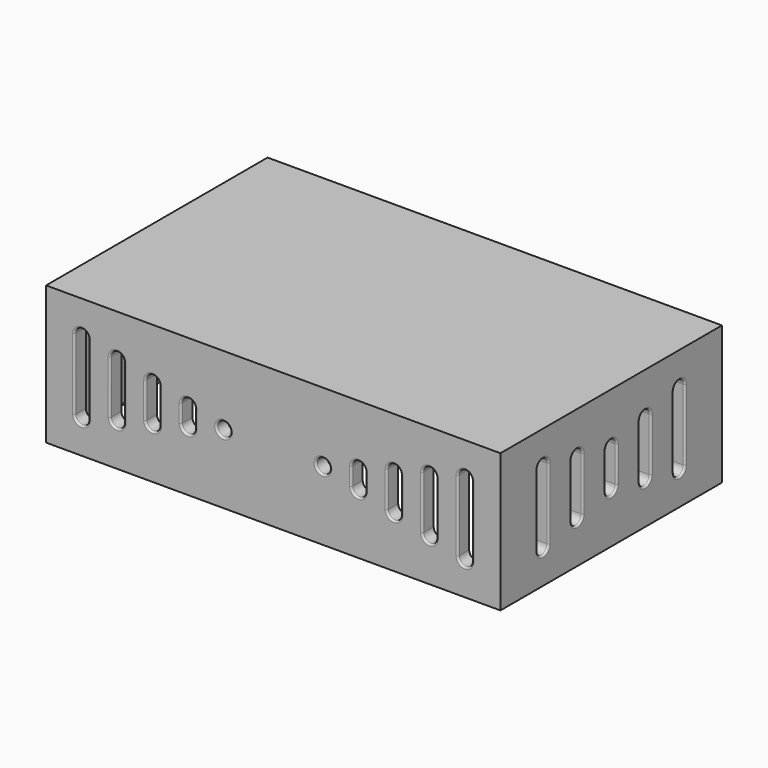
from build123d import *

# Parameters (mm, degrees)
SKETCH_W        = 128
SKETCH_H        = 78
PAD_DEPTH       = 39
SKETCH001_W     = 120
SKETCH001_H     = 70
POCKET_DEPTH    = 35
SKETCH002_R     = 2
POCKET001_DEPTH = 78.001
POCKET002_DEPTH = 128.001
SKETCH004_W     = 124
SKETCH004_H     = 74
POCKET003_DEPTH = 2
FILLET_R        = 0.5
POCKET004_DEPTH = 5
FILLET001_R     = 0.5
SKETCH006_W     = 15
SKETCH006_H     = 2
POCKET005_DEPTH = 5


with BuildPart() as part:
    # Sketch → Pad (new body)
    with BuildSketch(Plane.XY):
        with Locations((64, 39)):
            Rectangle(SKETCH_W, SKETCH_H)
    extrude(amount=PAD_DEPTH)

    # Sketch001 (on Face5 of Pad) → Pocket (cut)
    with BuildSketch(Plane(origin=(0, 0, 0), x_dir=(1, 0, 0), z_dir=(0, 0, -1))):
        with Locations((64, -39)):
            Rectangle(SKETCH001_W, SKETCH001_H)
    extrude(amount=-POCKET_DEPTH, mode=Mode.SUBTRACT)

    # Sketch002 (on Face1 of Pocket) → Pocket001 (cut, through all)
    with BuildSketch(Plane(origin=(0, 78, 0), x_dir=(-1, 0, 0), z_dir=(0, 1, 0))):
        with Locations((-78, 19.5)):
            Circle(SKETCH002_R)
        with Locations((-50, 19.5)):
            Circle(SKETCH002_R)
        with BuildLine():
            ThreePointArc((-116, 29.5), (-118, 31.5), (-120, 29.5))
            Line((-120, 29.5), (-120, 9.5))
            ThreePointArc((-120, 9.5), (-118, 7.5), (-116, 9.5))
            Line((-116, 29.5), (-116, 9.5))
        make_face()
        with BuildLine():
            ThreePointArc((-106, 27), (-108, 29), (-110, 27))
            Line((-110, 27), (-110, 12))
            ThreePointArc((-110, 12), (-108, 10), (-106, 12))
            Line((-106, 27), (-106, 12))
        make_face()
        with BuildLine():
            ThreePointArc((-96, 24.5), (-98, 26.5), (-100, 24.5))
            Line((-100, 24.5), (-100, 14.5))
            ThreePointArc((-100, 14.5), (-98, 12.5), (-96, 14.5))
            Line((-96, 24.5), (-96, 14.5))
        make_face()
        with BuildLine():
            ThreePointArc((-86, 22), (-88, 24), (-90, 22))
            Line((-90, 22), (-90, 17))
            ThreePointArc((-90, 17), (-88, 15), (-86, 17))
            Line((-86, 22), (-86, 17))
        make_face()
        with BuildLine():
            ThreePointArc((-12, 9.5), (-10, 7.5), (-8, 9.5))
            Line((-8, 9.5), (-8, 29.5))
            ThreePointArc((-8, 29.5), (-10, 31.5), (-12, 29.5))
            Line((-12, 9.5), (-12, 29.5))
        make_face()
        with BuildLine():
            ThreePointArc((-22, 12), (-20, 10), (-18, 12))
            Line((-18, 12), (-18, 27))
            ThreePointArc((-18, 27), (-20, 29), (-22, 27))
            Line((-22, 12), (-22, 27))
        make_face()
        with BuildLine():
            ThreePointArc((-32, 14.5), (-30, 12.5), (-28, 14.5))
            Line((-28, 14.5), (-28, 24.5))
            ThreePointArc((-28, 24.5), (-30, 26.5), (-32, 24.5))
            Line((-32, 14.5), (-32, 24.5))
        make_face()
        with BuildLine():
            ThreePointArc((-42, 17), (-40, 15), (-38, 17))
            Line((-38, 17), (-38, 22))
            ThreePointArc((-38, 22), (-40, 24), (-42, 22))
            Line((-42, 17), (-42, 22))
        make_face()
    extrude(amount=-POCKET001_DEPTH, mode=Mode.SUBTRACT)

    # Sketch003 (on Face5 of Pocket001) → Pocket002 (cut, through all)
    with BuildSketch(Plane.YZ.offset(128)):
        with BuildLine():
            ThreePointArc((17, 29.5), (15, 31.5), (13, 29.5))
            Line((13, 29.5), (13, 9.5))
            ThreePointArc((13, 9.5), (15, 7.5), (17, 9.5))
            Line((17, 29.5), (17, 9.5))
        make_face()
        with BuildLine():
            ThreePointArc((29, 27), (27, 29), (25, 27))
            Line((25, 27), (25, 12))
            ThreePointArc((25, 12), (27, 10), (29, 12))
            Line((29, 27), (29, 12))
        make_face()
        with BuildLine():
            ThreePointArc((65, 29.5), (63, 31.5), (61, 29.5))
            Line((61, 29.5), (61, 9.5))
            ThreePointArc((61, 9.5), (63, 7.5), (65, 9.5))
            Line((65, 29.5), (65, 9.5))
        make_face()
        with BuildLine():
            ThreePointArc((53, 27), (51, 29), (49, 27))
            Line((49, 27), (49, 12))
            ThreePointArc((49, 12), (51, 10), (53, 12))
            Line((53, 27), (53, 12))
        make_face()
        with BuildLine():
            ThreePointArc((41, 24.5), (39, 26.5), (37, 24.5))
            Line((37, 24.5), (37, 14.5))
            ThreePointArc((37, 14.5), (39, 12.5), (41, 14.5))
            Line((41, 24.5), (41, 14.5))
        make_face()
    extrude(amount=-POCKET002_DEPTH, mode=Mode.SUBTRACT)

    # Sketch004 (on Face3 of Pocket002) → Pocket003 (cut)
    with BuildSketch(Plane(origin=(0, 0, 0), x_dir=(1, 0, 0), z_dir=(0, 0, -1))):
        with Locations((64, -39)):
            Rectangle(SKETCH004_W, SKETCH004_H)
    extrude(amount=-POCKET003_DEPTH, mode=Mode.SUBTRACT)

    # Fillet
    fillet_edges = [part.edges().sort_by_distance(p)[0] for p in [
        (116, 78, 19.5),
        (106, 78, 19.5),
        (96, 78, 19.5),
        (86, 78, 19.5),
        (80, 78, 19.5),
        (52, 78, 19.5),
        (38, 78, 19.5),
        (28, 78, 19.5),
        (18, 78, 19.5),
        (8, 78, 19.5),
        (128, 65, 19.5),
        (128, 53, 19.5),
        (128, 41, 19.5),
        (128, 29, 19.5),
        (128, 17, 19.5),
        (120, 0, 19.5),
        (110, 0, 19.5),
        (100, 0, 19.5),
        (90, 0, 19.5),
        (80, 0, 19.5),
        (52, 0, 19.5),
        (42, 0, 19.5),
        (32, 0, 19.5),
        (22, 0, 19.5),
        (12, 0, 19.5),
        (0, 13, 19.5),
        (0, 25, 19.5),
        (0, 37, 19.5),
        (0, 49, 19.5),
        (0, 61, 19.5),
    ]]
    fillet(fillet_edges, radius=FILLET_R)

    # Sketch005 (on Face1 of Fillet) → Pocket004 (cut)
    with BuildSketch(Plane(origin=(0, 78, 0), x_dir=(-1, 0, 0), z_dir=(0, 1, 0))):
        with BuildLine():
            Line((-4, 0), (-4, 4))
            ThreePointArc((-4, 4), (-6, 6), (-8, 4))
            Line((-8, 0), (-8, 4))
            Line((-8, 0), (-4, 0))
        make_face()
    extrude(amount=-POCKET004_DEPTH, mode=Mode.SUBTRACT)

    # Fillet001
    fillet001_edges = [part.edges().sort_by_distance(p)[0] for p in [
        (4, 78, 2),
    ]]
    fillet(fillet001_edges, radius=FILLET001_R)

    # Sketch006 (on Face4 of Fillet001) → Pocket005 (cut)
    with BuildSketch(Plane(origin=(0, 0, 0), x_dir=(0, -1, 0), z_dir=(-1, 0, 0))):
        with Locations((-39, 1)):
            Rectangle(SKETCH006_W, SKETCH006_H)
    extrude(amount=-POCKET005_DEPTH, mode=Mode.SUBTRACT)


solid = part.part
